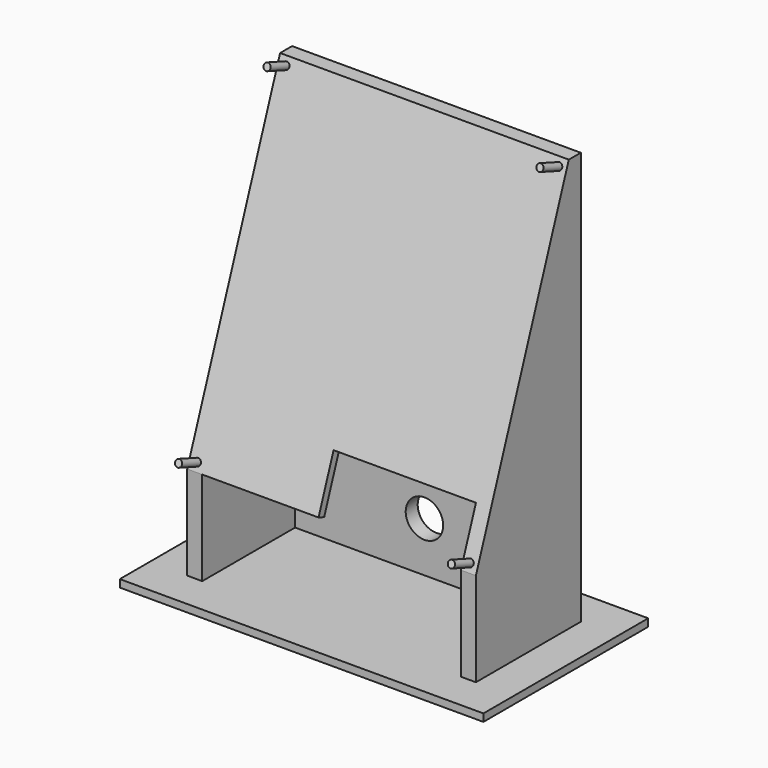
from build123d import *

# Parameters (mm, degrees)
SKETCH001_W     = 145.57
SKETCH001_H     = 82.477117
PAD_DEPTH       = 3
PAD001_DEPTH    = 165.3
SKETCH004_W     = 328.820023
SKETCH004_H     = 275.658927
POCKET_DEPTH    = 200
PAD002_DEPTH    = 3
SKETCH003_R     = 1.4
PAD003_DEPTH    = 10
SKETCH005_R     = 7.5
POCKET001_DEPTH = 46.158923


with BuildPart() as part:
    # Sketch001 → Pad (new body)
    with BuildSketch(Plane.XY):
        with Locations((0, 4.919365)):
            Rectangle(SKETCH001_W, SKETCH001_H)
    extrude(amount=-PAD_DEPTH)

    # Sketch → Pad001 (join)
    with BuildSketch(Plane.XY):
        Polygon((51.785, -21.319194), (57.785, -21.319194), (57.785, 31.157923), (-57.785, 31.157923), (-57.785, -21.319194), (-51.785, -21.319194), (-51.785, 25.157923), (51.785, 25.157923), align=None)
    extrude(amount=PAD001_DEPTH)

    # Sketch004 (on DatumPlane) → Pocket (cut)
    with BuildSketch(Plane(origin=(0, -35, 0), x_dir=(1, 0, 0), z_dir=(0, -0.939693, 0.34202))):
        with Locations((-2.626228, 137.829464)):
            Rectangle(SKETCH004_W, SKETCH004_H)
    extrude(amount=POCKET_DEPTH, mode=Mode.SUBTRACT)

    # Sketch002 (on DatumPlane) → Pad002 (join)
    with BuildSketch(Plane(origin=(0, -35, 0), x_dir=(1, 0, 0), z_dir=(0, -0.939693, 0.34202))):
        Polygon((-57.785, 175.89), (57.785, 175.89), (57.785, 40), (51.785, 40), (51.785, 62), (-5.215, 62), (-5.215, 40), (-57.785, 40), align=None)
    extrude(amount=-PAD002_DEPTH)

    # Sketch003 (on DatumPlane) → Pad003 (join)
    with BuildSketch(Plane(origin=(0, -35, 0), x_dir=(1, 0, 0), z_dir=(0, -0.939693, 0.34202))):
        with Locations((-54.61, 172.715)):
            Circle(SKETCH003_R)
        with Locations((54.61, 172.715)):
            Circle(SKETCH003_R)
        with Locations((54.61, 43.175)):
            Circle(SKETCH003_R)
        with Locations((-54.61, 43.175)):
            Circle(SKETCH003_R)
    extrude(amount=PAD003_DEPTH)

    # Sketch005 → Pocket001 (cut, through all)
    with BuildSketch(Plane.XZ):
        with Locations((0, 20)):
            Circle(SKETCH005_R)
    extrude(amount=-POCKET001_DEPTH, mode=Mode.SUBTRACT)


solid = part.part
